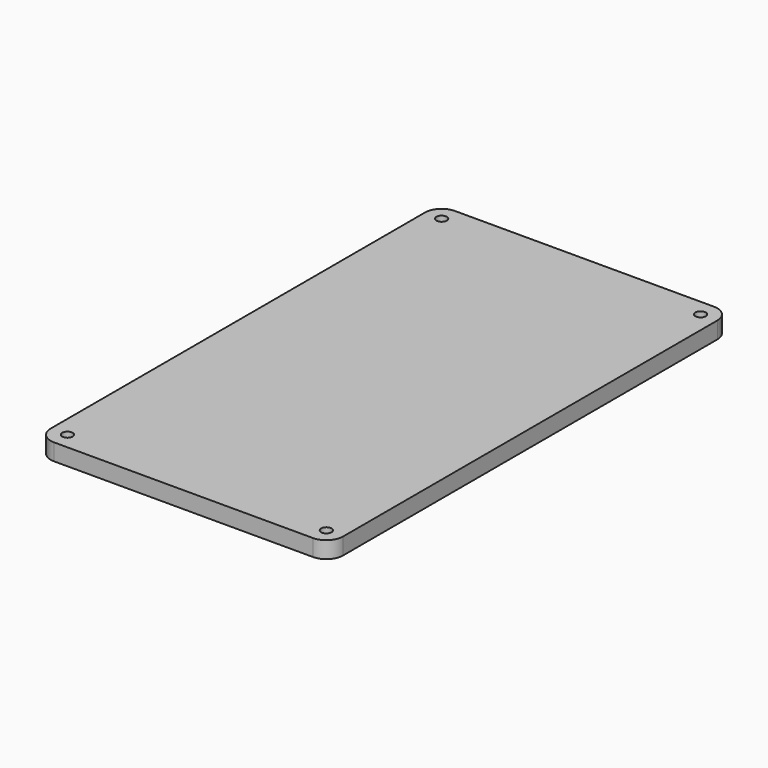
from build123d import *

# Parameters (mm, degrees)
F0_W     = 88.9
F0_H     = 152.4
F1_DEPTH = 5.08
F2_R     = 1.5875
F3_DEPTH = 25.4
F4_R     = 5.08


with BuildPart() as f1:
    # F0 (on Top) → F1 (new body)
    with BuildSketch(Plane.XY):
        with Locations((44.45, -76.2)):
            Rectangle(F0_W, F0_H)
    extrude(amount=F1_DEPTH)

    # F2 (on face) → F3 (cut)
    with BuildSketch(Plane.XY.offset(5.08)):
        with Locations((5.08, -5.08)):
            Circle(F2_R)
        with Locations((83.82, -5.08)):
            Circle(F2_R)
        with Locations((83.82, -147.32)):
            Circle(F2_R)
        with Locations((5.08, -147.32)):
            Circle(F2_R)
    extrude(amount=-F3_DEPTH, mode=Mode.SUBTRACT)

    # F4
    f4_edges = [f1.edges().sort_by_distance(p)[0] for p in [
        (0, -152.4, 2.54),
        (88.9, -152.4, 2.54),
        (88.9, 0, 2.54),
        (0, 0, 2.54),
    ]]
    fillet(f4_edges, radius=F4_R)


solid = f1.part
